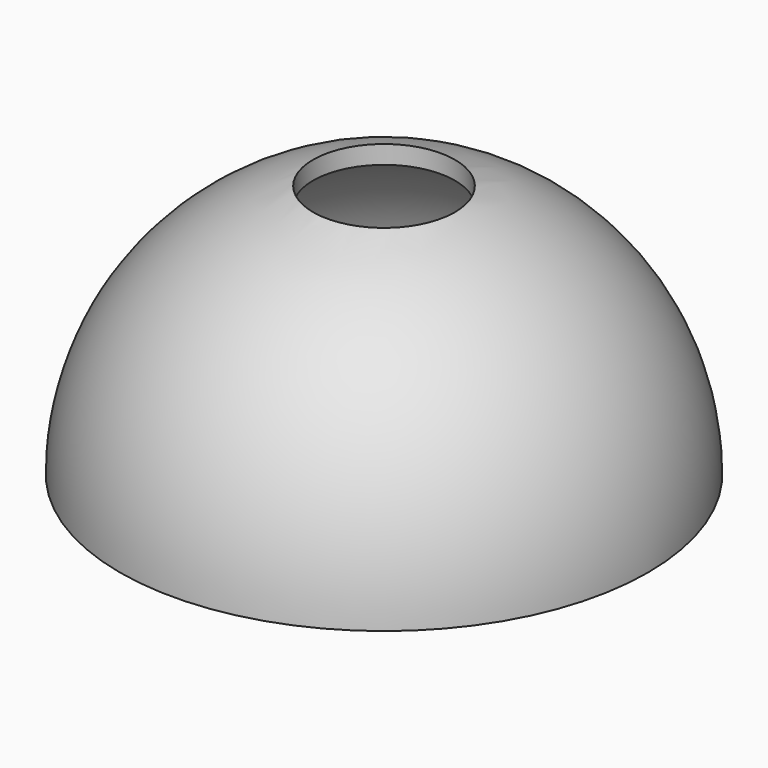
from build123d import *

# Parameters (mm, degrees)
F1_ANGLE = 180
F2_T     = -2.54
F3_R     = 37.465
F3_R_2   = 36.195
F4_DEPTH = 2.54
F5_R     = 10.23543
F6_DEPTH = 101.6


with BuildPart() as f1:
    # F0 (on Top) → F1 (revolve)
    with BuildSketch(Plane.XY):
        with BuildLine():
            Line((-38.1, 0), (38.1, 0))
            ThreePointArc((38.1, 0), (0, 38.1), (-38.1, 0))
        make_face()
    revolve(axis=Axis((0, 0, 0), (1, 0, 0)), revolution_arc=F1_ANGLE)

    # F2
    f2_openings = [f1.faces().sort_by_distance(p)[0] for p in [
        (0, 0, 0),
    ]]
    offset(amount=F2_T, openings=f2_openings)

    # F3 (on Top) → F4 (cut)
    with BuildSketch(Plane.XY):
        Circle(F3_R)
        Circle(F3_R_2, mode=Mode.SUBTRACT)
    extrude(amount=F4_DEPTH, mode=Mode.SUBTRACT)

    # F5 (on Top) → F6 (cut)
    with BuildSketch(Plane.XY):
        Circle(F5_R)
    extrude(amount=F6_DEPTH, mode=Mode.SUBTRACT)


solid = f1.part
